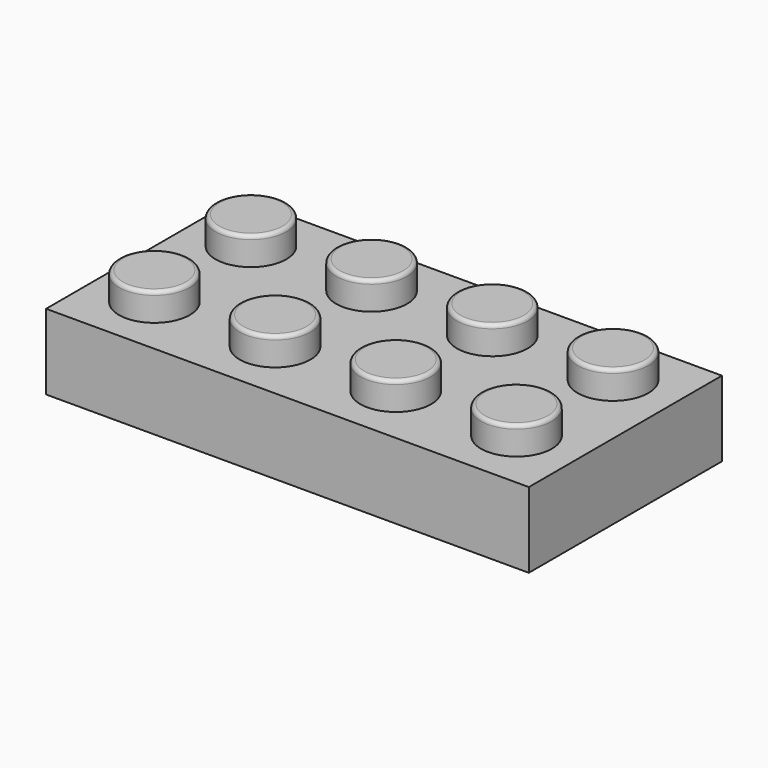
from build123d import *

# Parameters (mm, degrees)
F0_W     = 32.004
F0_H     = 16.002
F1_DEPTH = 5.0038
F2_R     = 2.3495
F3_DEPTH = 1.8542
F4_R     = 0.254


with BuildPart() as f1:
    # F0 (on Top) → F1 (new body)
    with BuildSketch(Plane.XY):
        with Locations((16.002, 8.001)):
            Rectangle(F0_W, F0_H)
    extrude(amount=F1_DEPTH)

    # F2 (on face) → F3 (join)
    with BuildSketch(Plane.XY.offset(5.0038)):
        with Locations((3.8989, 12.1031)):
            Circle(F2_R)
        with Locations((11.8999, 12.1031)):
            Circle(F2_R)
        with Locations((19.9009, 12.1031)):
            Circle(F2_R)
        with Locations((27.9019, 12.1031)):
            Circle(F2_R)
        with Locations((3.8989, 4.1021)):
            Circle(F2_R)
        with Locations((11.8999, 4.1021)):
            Circle(F2_R)
        with Locations((19.9009, 4.1021)):
            Circle(F2_R)
        with Locations((27.9019, 4.1021)):
            Circle(F2_R)
    extrude(amount=F3_DEPTH)

    # F4
    f4_edges = [f1.edges().sort_by_distance(p)[0] for p in [
        (1.5494, 4.1021, 6.858),
        (1.5494, 12.1031, 6.858),
        (9.5504, 12.1031, 6.858),
        (9.5504, 4.1021, 6.858),
        (17.5514, 4.1021, 6.858),
        (17.5514, 12.1031, 6.858),
        (25.5524, 12.1031, 6.858),
        (25.5524, 4.1021, 6.858),
    ]]
    fillet(f4_edges, radius=F4_R)


solid = f1.part
